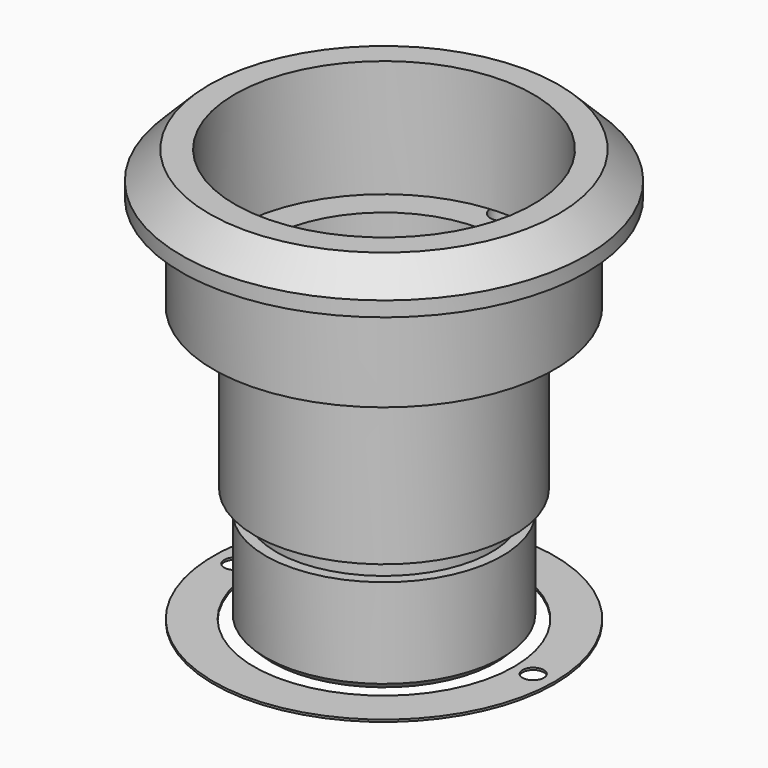
from build123d import *

# Parameters (mm, degrees)
F2_R     = 0.6
F3_DEPTH = 1
F4_R     = 8
F4_R_2   = 0.5
F4_R_3   = 6.1
F5_DEPTH = 0.1


with BuildPart() as f1:
    # F0 (on Front) → F1 (revolve)
    with BuildSketch(Plane.XZ):
        Polygon((-5.25, 0), (-4, 0), (-4, 5.25), (-5.25, 6.5), (-5.25, 8.4), (-5.55, 8.4), (-5.55, 14), (-7, 14), (-7, 19.5), (-8.2, 19.5), (-9.5, 18.2), (-9.5, 17.5), (-8, 17.5), (-8, 13), (-6.05, 13), (-6.05, 5.5), (-5.05, 5.5), (-5.05, 4.5), (-5.55, 4.5), (-5.55, 0.3), align=None)
    revolve(axis=Axis((0, 0, 9.75), (0, 0, 1)))

    # F2 (on face) → F3 (cut)
    with BuildSketch(Plane(origin=(0, 0, 13), x_dir=(1, 0, 0), z_dir=(0, 0, -1))):
        with Locations((0, 7)):
            Circle(F2_R)
        with Locations((0, -7)):
            Circle(F2_R)
    extrude(amount=-F3_DEPTH, mode=Mode.SUBTRACT)


with BuildPart() as f5:
    # F4 (on Top) → F5 (new body)
    with BuildSketch(Plane.XY):
        Circle(F4_R)
        with Locations((-7, 0)):
            Circle(F4_R_2, mode=Mode.SUBTRACT)
        Circle(F4_R_3, mode=Mode.SUBTRACT)
        with Locations((7, 0)):
            Circle(F4_R_2, mode=Mode.SUBTRACT)
    extrude(amount=F5_DEPTH)


solid = Compound([f1.part, f5.part])
